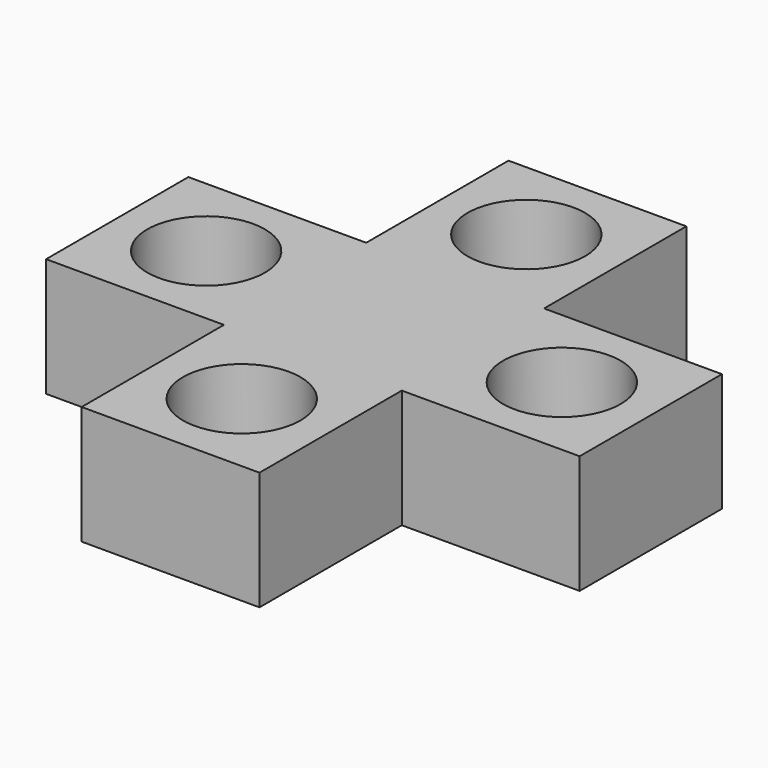
from build123d import *

# Parameters (mm, degrees)
F0_W     = 15
F0_H     = 15
F1_DEPTH = 10
F2_R     = 4.955
F3_DEPTH = 10.001


with BuildPart() as f1:
    # F0 (on Top) → F1 (new body)
    with BuildSketch(Plane.XY):
        with Locations((-15, 0)):
            Rectangle(F0_W, F0_H)
        Rectangle(F0_W, F0_H)
        with Locations((15, 0)):
            Rectangle(F0_W, F0_H)
        with Locations((0, 15)):
            Rectangle(F0_W, F0_H)
        with Locations((0, -15)):
            Rectangle(F0_W, F0_H)
    extrude(amount=F1_DEPTH)

    # F2 (on face) → F3 (cut, through all)
    with BuildSketch(Plane.XY.offset(10)):
        with Locations((-15, 0)):
            Circle(F2_R)
        with Locations((15, 0)):
            Circle(F2_R)
        with Locations((0, -15)):
            Circle(F2_R)
        with Locations((0, 15)):
            Circle(F2_R)
    extrude(amount=-F3_DEPTH, mode=Mode.SUBTRACT)


solid = f1.part
